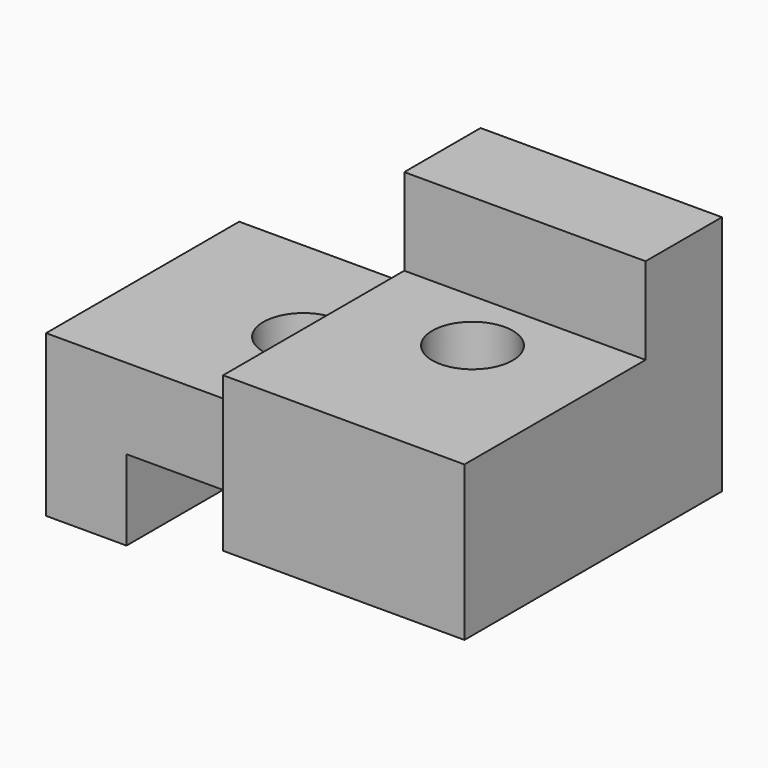
from build123d import *

# Parameters (mm, degrees)
F0_W           = 19.05
F0_H           = 25.4
F1_DEPTH       = 12.7
F2_W           = 31.75
F2_H           = 6.35
F3_DEPTH       = 25.401
F4_W           = 19.05
F4_H           = 12.7
F5_DEPTH       = 25.401
F6_W           = 17.8727991879
F6_H           = 6.8537575796
F7_DEPTH       = 38.101
F8_W           = 19.05
F8_H           = 6.35
F9_DEPTH       = 12.701
F10_R          = 3.175
F11_DEPTH      = 19.051
F11_DEPTH_BACK = 6.351


with BuildPart() as f1:
    # F0 (on Top) → F1 (new body, symmetric)
    with BuildSketch(Plane.XY):
        with Locations((9.525, 12.7)):
            Rectangle(F0_W, F0_H)
        with Locations((-9.525, 12.7)):
            Rectangle(F0_W, F0_H)
    extrude(amount=F1_DEPTH, both=True)

    # F2 (on face) → F3 (cut, through all)
    with BuildSketch(Plane.XZ):
        with Locations((3.175, -9.525)):
            Rectangle(F2_W, F2_H)
    extrude(amount=-F3_DEPTH, mode=Mode.SUBTRACT)

    # F4 (on face) → F5 (cut, through all)
    with BuildSketch(Plane.XZ):
        with Locations((-9.525, 6.35)):
            Rectangle(F4_W, F4_H)
    extrude(amount=-F5_DEPTH, mode=Mode.SUBTRACT)

    # F6 (on face) → F7 (cut, through all)
    with BuildSketch(Plane.YZ.offset(19.05)):
        with Locations((8.9363995939, 9.2731212102)):
            Rectangle(F6_W, F6_H)
    extrude(amount=-F7_DEPTH, mode=Mode.SUBTRACT)

    # F8 (on face) → F9 (cut, through all)
    with BuildSketch(Plane.XY):
        with Locations((-9.525, 3.175)):
            Rectangle(F8_W, F8_H)
    extrude(amount=-F9_DEPTH, mode=Mode.SUBTRACT)

    # F10 (on face) → F11 (cut, two sides)
    with BuildSketch(Plane(origin=(0, 0, -6.35), x_dir=(1, 0, 0), z_dir=(0, 0, -1))) as f11_sk:
        with Locations((-6.35, -15.875)):
            Circle(F10_R)
        with Locations((9.525, -12.7)):
            Circle(F10_R)
    extrude(amount=-F11_DEPTH, mode=Mode.SUBTRACT)
    extrude(f11_sk.sketch, amount=F11_DEPTH_BACK, mode=Mode.SUBTRACT)


solid = f1.part
